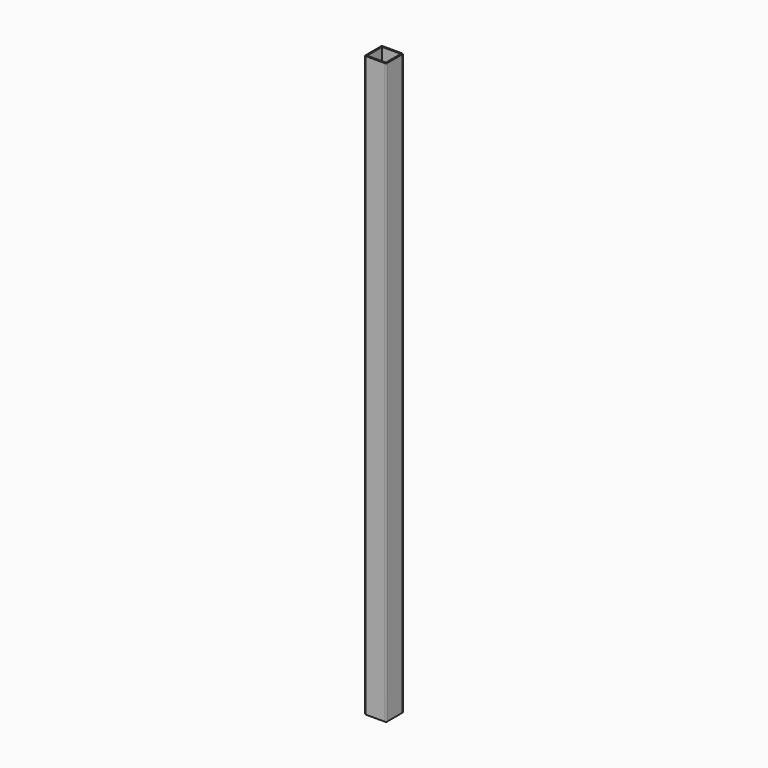
from build123d import *

# Parameters (mm, degrees)
F0_W     = 101.6
F0_H     = 101.6
F1_DEPTH = 2743.2
F2_W     = 88.9
F2_H     = 88.9
F3_DEPTH = 2743.201
F4_R     = 5.08


with BuildPart() as f1:
    # F0 (on Top) → F1 (new body)
    with BuildSketch(Plane.XY):
        Rectangle(F0_W, F0_H)
    extrude(amount=F1_DEPTH)

    # F2 (on face) → F3 (cut, through all)
    with BuildSketch(Plane.XY.offset(2743.2)):
        Rectangle(F2_W, F2_H)
    extrude(amount=-F3_DEPTH, mode=Mode.SUBTRACT)

    # F4
    f4_edges = [f1.edges().sort_by_distance(p)[0] for p in [
        (50.8, -50.8, 1371.6),
        (50.8, 50.8, 1371.6),
        (-50.8, -50.8, 1371.6),
        (-50.8, 50.8, 1371.6),
    ]]
    fillet(f4_edges, radius=F4_R)


solid = f1.part
